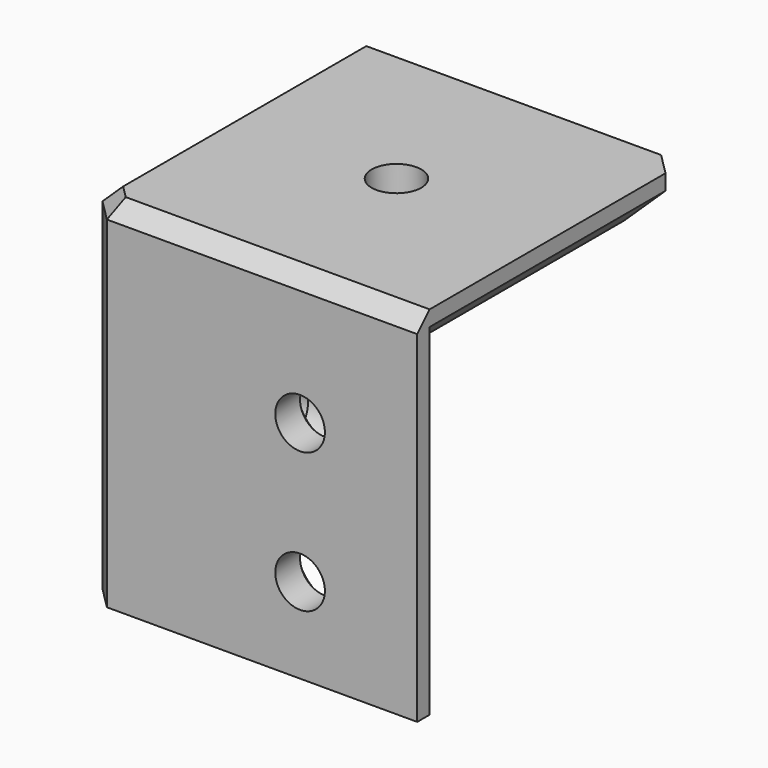
from build123d import *

# Parameters (mm, degrees)
PAD048_DEPTH    = 20
PAD049_DEPTH    = 3
CHAMFER030_SIZE = 2
CHAMFER031_SIZE = 1
SKETCH091_R     = 1.6
POCKET029_DEPTH = 5
CHAMFER032_SIZE = 1
SKETCH092_R     = 1.6
POCKET030_DEPTH = 3
CHAMFER033_SIZE = 1
SKETCH093_R     = 1.6
POCKET031_DEPTH = 3.001
CHAMFER034_SIZE = 1


with BuildPart() as part:
    # Sketch089 → Pad048 (new body)
    with BuildSketch(Plane.XY):
        Polygon((19.414214, 3), (8.313708, 3), (3, 8.313708), (3, 19.414214), (1, 21.414214), (0, 21.414214), (0, 1.414214), (1.414214, 0), (21.414214, 0), (21.414214, 1), align=None)
    extrude(amount=-PAD048_DEPTH)

    # Sketch090 → Pad049 (join)
    with BuildSketch(Plane.XY):
        Polygon((0, 21.414214), (20, 21.414214), (21.414214, 20), (21.414214, 0), (1.414214, 0), (0, 1.414214), align=None)
    extrude(amount=PAD049_DEPTH)

    # Chamfer030
    chamfer030_edges = [part.edges().sort_by_distance(p)[0] for p in [
        (21.414214, 10.5, 0),
        (20.707107, 20.707107, 0),
        (10.5, 21.414214, 0),
    ]]
    chamfer(chamfer030_edges, length=CHAMFER030_SIZE)

    # Chamfer031
    chamfer031_edges = [part.edges().sort_by_distance(p)[0] for p in [
        (0.707107, 0.707107, 3),
        (11.414214, 0, 3),
        (0, 11.414214, 3),
    ]]
    chamfer(chamfer031_edges, length=CHAMFER031_SIZE)

    # Sketch091 (on Face15 of Chamfer031) → Pocket029 (cut)
    with BuildSketch(Plane(origin=(0, 0, 0), x_dir=(1, 0, 0), z_dir=(0, 0, -1))):
        with Locations((11.207107, -11.085786)):
            Circle(SKETCH091_R)
    extrude(amount=-POCKET029_DEPTH, mode=Mode.SUBTRACT)

    # Chamfer032
    chamfer032_edges = [part.edges().sort_by_distance(p)[0] for p in [
        (9.607107, 11.085786, 0),
    ]]
    chamfer(chamfer032_edges, length=CHAMFER032_SIZE)

    # Sketch092 (on Face16 of Chamfer032) → Pocket030 (cut)
    with BuildSketch(Plane.YZ.offset(3)):
        with Locations((13.863961, -14.5)):
            Circle(SKETCH092_R)
        with Locations((13.863961, -5.5)):
            Circle(SKETCH092_R)
    extrude(amount=-POCKET030_DEPTH, mode=Mode.SUBTRACT)

    # Chamfer033
    chamfer033_edges = [part.edges().sort_by_distance(p)[0] for p in [
        (3, 12.263961, -14.5),
        (3, 12.263961, -5.5),
    ]]
    chamfer(chamfer033_edges, length=CHAMFER033_SIZE)

    # Sketch093 (on Face9 of Chamfer033) → Pocket031 (cut, through all)
    with BuildSketch(Plane(origin=(0, 3, 0), x_dir=(-1, 0, 0), z_dir=(0, 1, 0))):
        with Locations((-13.863961, -5.5)):
            Circle(SKETCH093_R)
        with Locations((-13.863961, -14.5)):
            Circle(SKETCH093_R)
    extrude(amount=-POCKET031_DEPTH, mode=Mode.SUBTRACT)

    # Chamfer034
    chamfer034_edges = [part.edges().sort_by_distance(p)[0] for p in [
        (15.463961, 3, -5.5),
        (15.463961, 3, -14.5),
    ]]
    chamfer(chamfer034_edges, length=CHAMFER034_SIZE)


with BuildPart() as part_1:
    # Body088 placement: moved
    add(part.part.moved(Location((0, 0, -18))))


solid = part_1.part
